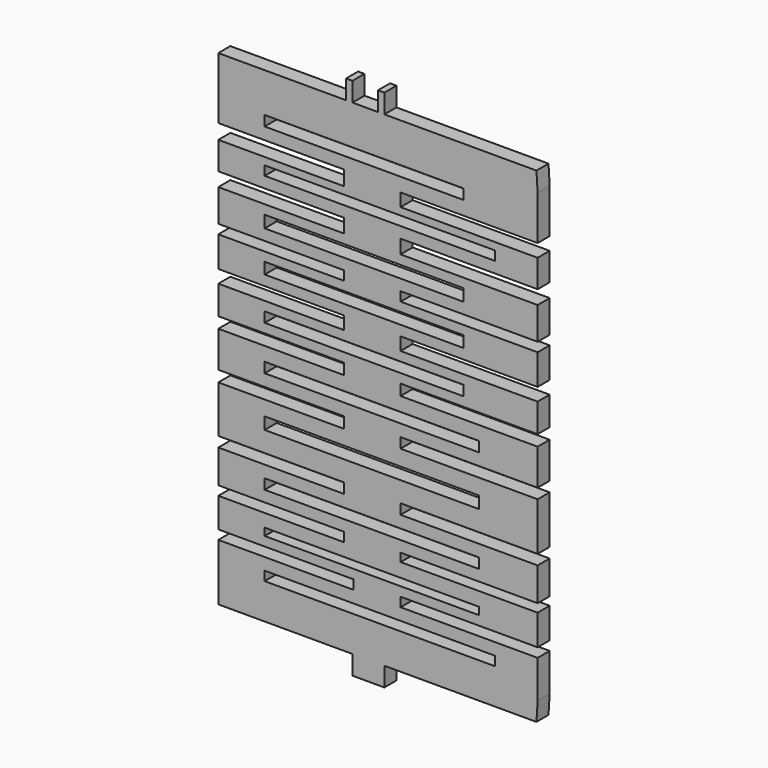
from build123d import *

# Parameters (mm, degrees)
F0_W     = 42.64751
F0_H     = 1.470603
F0_H_2   = 2.02208
F0_H_3   = 2.389731
F0_W_2   = 45.754235
F0_H_4   = 1.838255
F0_W_3   = 39.522478
F0_H_5   = 2.245025
F0_H_6   = 2.022082
F0_H_7   = 1.838256
F1_DEPTH = 3


with BuildPart() as f1:
    # F0 (on Front) → F1 (new body)
    with BuildSketch(Plane.XZ):
        Polygon((-54.974343, 33.532223), (-54.974343, 29.722223), (8.525657, 29.722223), (8.290456, 33.532223), (-21.954343, 33.532223), (-21.954343, 37.342223), (-23.224343, 37.342223), (-23.224343, 33.532223), (-28.304343, 33.532223), (-28.304343, 37.342223), (-29.574343, 37.342223), (-29.574343, 33.532223), align=None)
        Polygon((8.525657, 29.722223), (-54.974343, 29.722223), (-54.974343, 21.275444), (-29.945243, 21.275444), (-29.945243, 18.343428), (-54.974343, 18.343428), (-54.974343, 12.828665), (-29.945243, 12.828665), (-29.945243, 10.071282), (-54.974343, 10.071282), (-54.974343, 3.63739), (-29.945243, 3.63739), (-29.945243, 1.799135), (-54.974343, 1.799135), (-54.974343, -4.267105), (-29.945243, -4.267105), (-29.945243, -6.840662), (-54.974343, -6.840662), (-54.974343, -12.539252), (-29.945243, -12.539252), (-29.945243, -14.727777), (-54.974343, -14.727777), (-54.974343, -21.91435), (-29.945243, -21.91435), (-29.945243, -24.120256), (-54.974343, -24.120256), (-54.974343, -33.495355), (-29.945243, -33.495355), (-29.945243, -35.517436), (-54.974343, -35.517436), (-54.974343, -42.135153), (-29.945243, -42.135153), (-29.945243, -43.973409), (-54.974343, -43.973409), (-54.974343, -49.855825), (-28.106989, -49.855825), (-28.106989, -51.694077), (-54.974343, -51.694077), (-54.974343, -59.177777), (8.525657, -59.177777), (8.525657, -51.694077), (-18.73189, -51.694077), (-18.73189, -49.855825), (8.525657, -49.855825), (8.525657, -43.789584), (-18.73189, -43.789584), (-18.73189, -42.135153), (8.525657, -42.135153), (8.525657, -35.517436), (-18.73189, -35.517436), (-18.73189, -33.495355), (8.525657, -33.495355), (8.525657, -23.936432), (-18.73189, -23.936432), (-18.73189, -21.91435), (8.525657, -21.91435), (8.525657, -14.727777), (-18.73189, -14.727777), (-18.73189, -12.539252), (8.525657, -12.539252), (8.525657, -6.840662), (-18.73189, -6.840662), (-18.73189, -4.267105), (8.525657, -4.267105), (8.525657, 1.799135), (-18.73189, 1.799135), (-18.73189, 3.63739), (8.525657, 3.63739), (8.525657, 10.071282), (-18.73189, 10.071282), (-18.73189, 12.828665), (8.525657, 12.828665), (8.525657, 18.343428), (-18.73189, 18.343428), (-18.73189, 20.916985), (8.525657, 20.916985), align=None)
        with Locations((-24.43048, -47.282267)):
            Rectangle(F0_W, F0_H, mode=Mode.SUBTRACT)
        with Locations((-24.43048, -38.918208)):
            Rectangle(F0_W, F0_H_2, mode=Mode.SUBTRACT)
        with Locations((-24.43048, -28.256329)):
            Rectangle(F0_W, F0_H_3, mode=Mode.SUBTRACT)
        with Locations((-24.43048, -18.513579)):
            Rectangle(F0_W, F0_H_2, mode=Mode.SUBTRACT)
        with Locations((-22.877118, -55.002933)):
            Rectangle(F0_W_2, F0_H_4, mode=Mode.SUBTRACT)
        with Locations((-25.992996, -9.689957)):
            Rectangle(F0_W_3, F0_H_2, mode=Mode.SUBTRACT)
        with Locations((-25.992996, -1.122513)):
            Rectangle(F0_W_3, F0_H_5, mode=Mode.SUBTRACT)
        with Locations((-25.992996, 7.038161)):
            Rectangle(F0_W_3, F0_H_3, mode=Mode.SUBTRACT)
        with Locations((-25.992996, 24.685406)):
            Rectangle(F0_W_3, F0_H_6, mode=Mode.SUBTRACT)
        with Locations((-22.877118, 15.953697)):
            Rectangle(F0_W_2, F0_H_7, mode=Mode.SUBTRACT)
        Polygon((8.525657, -59.177777), (-54.974343, -59.177777), (-54.974343, -62.987777), (-28.304343, -62.987777), (-28.304343, -66.797777), (-21.954343, -66.797777), (-21.954343, -62.987777), (8.290456, -62.987777), align=None)
    extrude(amount=F1_DEPTH)


solid = f1.part
